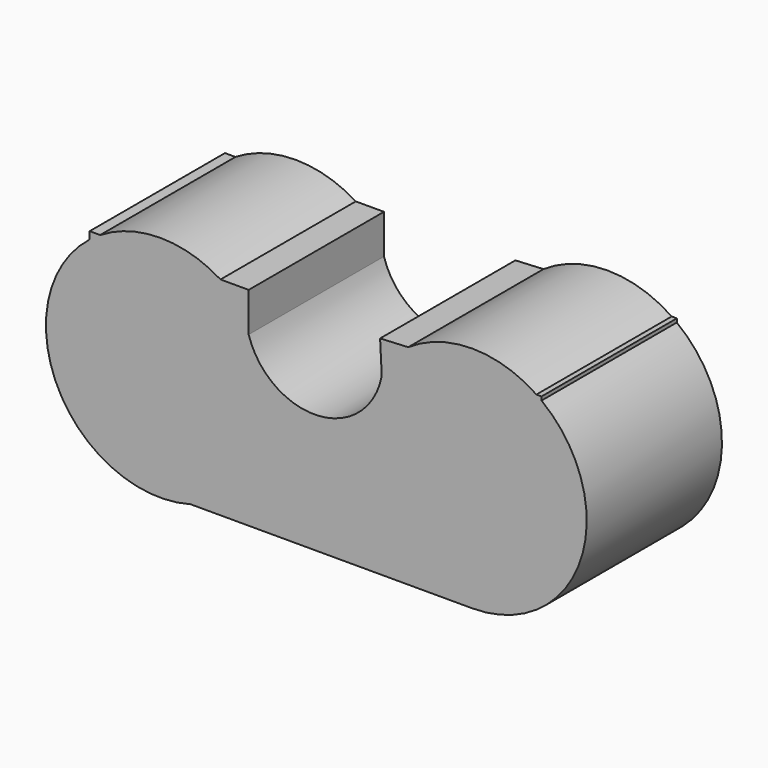
from build123d import *

# Parameters (mm, degrees)
F1_DEPTH = 30


with BuildPart() as f1:
    # F0 (on Front) → F1 (new body)
    with BuildSketch(Plane.XZ):
        with BuildLine():
            ThreePointArc((-35.692446, -10.797127), (-41.286589, -35.884078), (-17.804858, -46.336725))
            Line((-17.804858, -46.336725), (32.195142, -46.336725))
            ThreePointArc((32.195142, -46.336725), (51.423961, -32.524361), (44.473924, -9.891954))
            ThreePointArc((44.473924, -9.891954), (44.025197, -9.560505), (43.567529, -9.241517))
            ThreePointArc((43.567529, -9.241517), (32.195142, -5.755051), (20.822756, -9.241517))
            Line((20.822756, -9.241517), (15.829317, -9.49759))
            Line((15.829317, -9.49759), (16.125229, -15.267867))
            ThreePointArc((16.125229, -15.267867), (4.796341, -25.139633), (-7.482951, -16.478543))
            Line((-7.482951, -16.478543), (-7.482951, -9.49759))
            Line((-7.482951, -9.49759), (-12.482951, -9.49759))
            ThreePointArc((-12.482951, -9.49759), (-23.157559, -6.463665), (-33.832168, -9.49759))
            ThreePointArc((-33.832168, -9.49759), (-34.780484, -10.121339), (-35.692446, -10.797127))
        make_face()
        with BuildLine():
            Line((-35.692446, -9.49759), (-35.692446, -10.797127))
            ThreePointArc((-35.692446, -10.797127), (-34.780484, -10.121339), (-33.832168, -9.49759))
            Line((-33.832168, -9.49759), (-35.692446, -9.49759))
        make_face()
        with BuildLine():
            ThreePointArc((43.567529, -9.241517), (44.025197, -9.560505), (44.473924, -9.891954))
            Line((44.473924, -9.891954), (44.473924, -9.241517))
            Line((44.473924, -9.241517), (43.567529, -9.241517))
        make_face()
    extrude(amount=F1_DEPTH)


solid = f1.part
